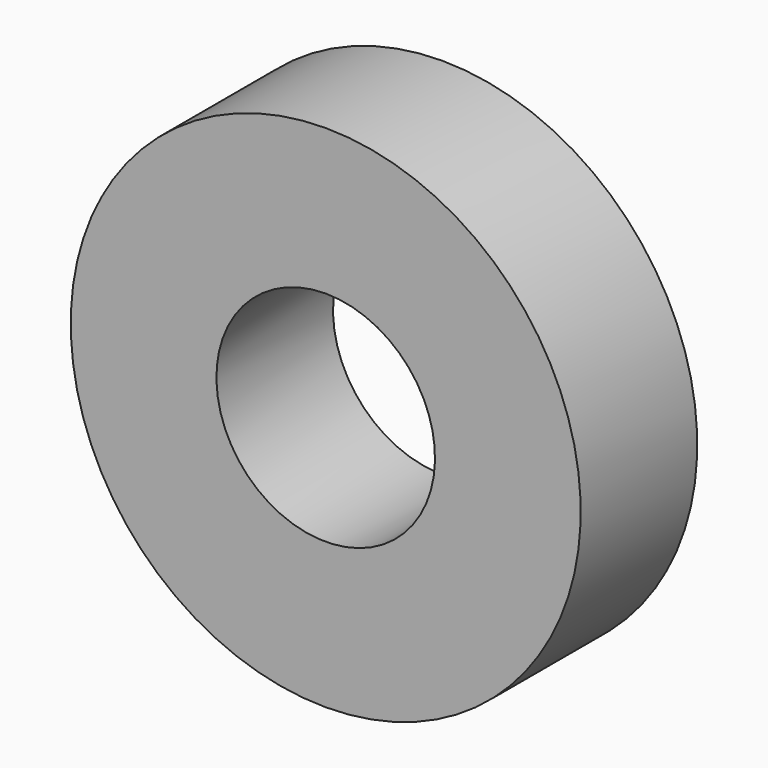
from build123d import *

# Parameters (mm, degrees)
SKETCH_W = 8
SKETCH_H = 8


with BuildPart() as part:
    # Sketch → Revolution (revolve)
    with BuildSketch(Plane.YZ):
        with Locations((0, 10)):
            Rectangle(SKETCH_W, SKETCH_H)
    revolve(axis=Axis((0, 0, 0), (0, 1, 0)))


solid = part.part
